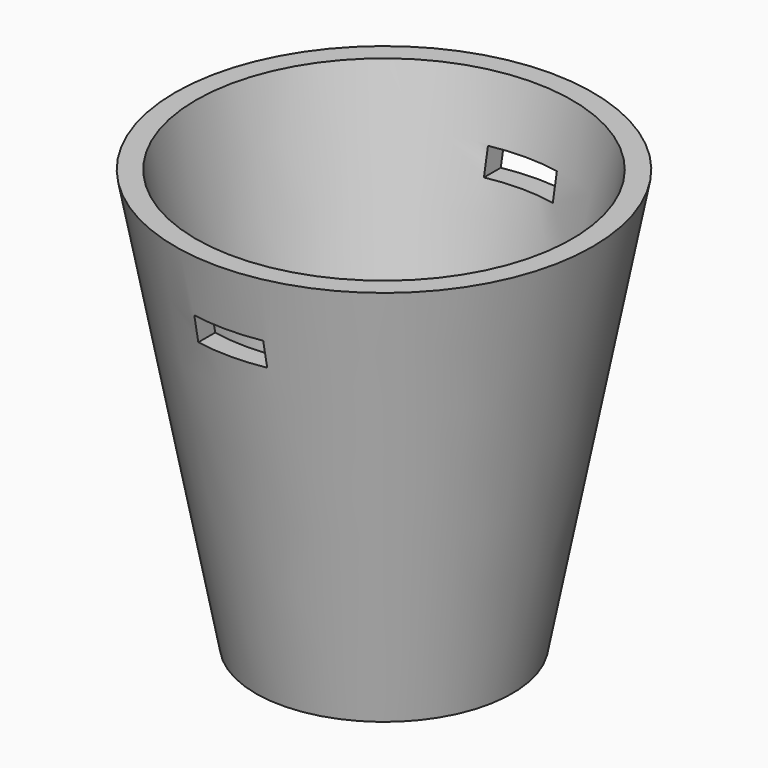
from build123d import *

# Parameters (mm, degrees)
F2_W          = 8
F2_H          = 3
F3_DEPTH      = 500
F3_DEPTH_BACK = 25


with BuildPart() as f1:
    # F0 (on Front) → F1 (revolve)
    with BuildSketch(Plane.XZ):
        Polygon((-14.893100597, 0), (0, 0), (0, 0.9875985638), (-12.6779083135, 0.9875985638), (-21.8379164935, 48.7266108394), (-24.242606014, 48.7266108394), align=None)
    revolve(axis=Axis((0, 0, 21.5093586594), (0, 0, 1)))

    # F2 (on Front) → F3 (cut, two sides)
    with BuildSketch(Plane.XZ) as f3_sk:
        with Locations((0, 40.1852652431)):
            Rectangle(F2_W, F2_H)
    extrude(amount=-F3_DEPTH, mode=Mode.SUBTRACT)
    extrude(f3_sk.sketch, amount=F3_DEPTH_BACK, mode=Mode.SUBTRACT)


solid = f1.part
